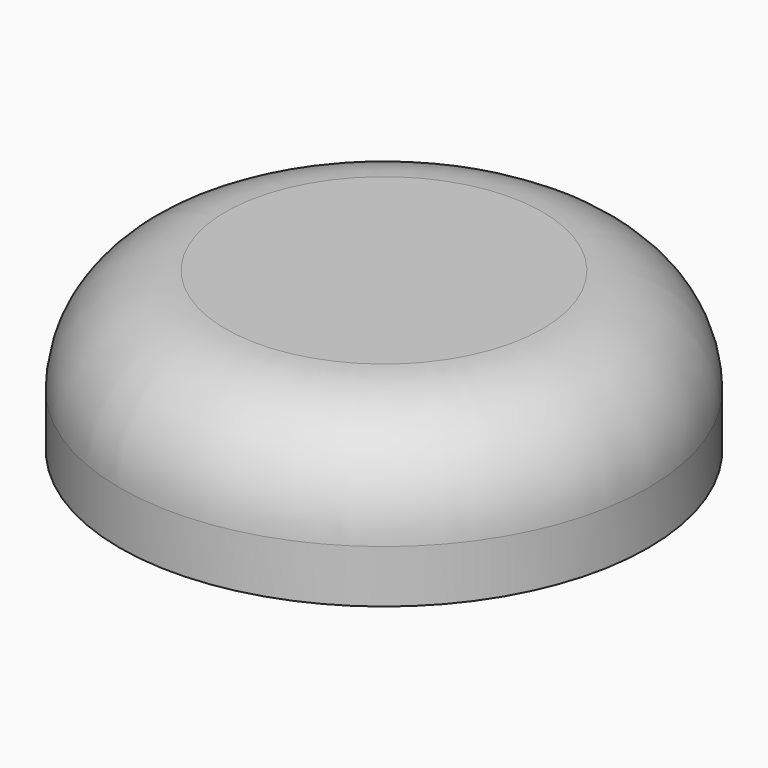
from build123d import *

# Parameters (mm, degrees)
F0_R      = 31.75
F1_DEPTH  = 19.05
F2_R      = 12.7
F3_T      = -2.54
F5_W      = 2.54
F5_H      = 5.08
F6_DEPTH  = 14.224
F7_W      = 5.08
F7_H      = 1.905
F8_DEPTH  = 0.635
F9_W      = 5.08
F9_H      = 1.905
F10_DEPTH = 0.635
F11_W     = 5.08
F11_H     = 1.905
F12_DEPTH = 0.635
F13_W     = 5.08
F13_H     = 1.905
F14_DEPTH = 0.635


with BuildPart() as f1:
    # F0 (on Top) → F1 (new body)
    with BuildSketch(Plane.XY):
        Circle(F0_R)
    extrude(amount=F1_DEPTH)

    # F2
    f2_edges = [f1.edges().sort_by_distance(p)[0] for p in [
        (-31.75, 0, 19.05),
    ]]
    fillet(f2_edges, radius=F2_R)

    # F3
    f3_openings = [f1.faces().sort_by_distance(p)[0] for p in [
        (0, 0, 0),
    ]]
    offset(amount=F3_T, openings=f3_openings)

    # F5 (on face) → F6 (join)
    with BuildSketch(Plane(origin=(0, 0, 16.51), x_dir=(1, 0, 0), z_dir=(0, 0, -1))):
        with Locations((9.449818, -2.54)):
            Rectangle(F5_W, F5_H)
        with Locations((2.845818, -2.54)):
            Rectangle(F5_W, F5_H)
        with Locations((-3.48516, -2.54)):
            Rectangle(F5_W, F5_H)
        with Locations((-10.08916, -2.54)):
            Rectangle(F5_W, F5_H)
    extrude(amount=F6_DEPTH)

    # F7 (on face) → F8 (join)
    with BuildSketch(Plane(origin=(-4.75516, 0, 0), x_dir=(0, -1, 0), z_dir=(-1, 0, 0))):
        with Locations((-2.54, 3.2385)):
            Rectangle(F7_W, F7_H)
    extrude(amount=F8_DEPTH)

    # F9 (on face) → F10 (join)
    with BuildSketch(Plane.YZ.offset(4.115818)):
        with Locations((2.54, 3.2385)):
            Rectangle(F9_W, F9_H)
    extrude(amount=F10_DEPTH)

    # F11 (on face) → F12 (join)
    with BuildSketch(Plane(origin=(8.179818, 0, 0), x_dir=(0, -1, 0), z_dir=(-1, 0, 0))):
        with Locations((-2.54, 3.2385)):
            Rectangle(F11_W, F11_H)
    extrude(amount=F12_DEPTH)

    # F13 (on face) → F14 (join)
    with BuildSketch(Plane.YZ.offset(-8.81916)):
        with Locations((2.54, 3.2385)):
            Rectangle(F13_W, F13_H)
    extrude(amount=F14_DEPTH)


solid = f1.part
